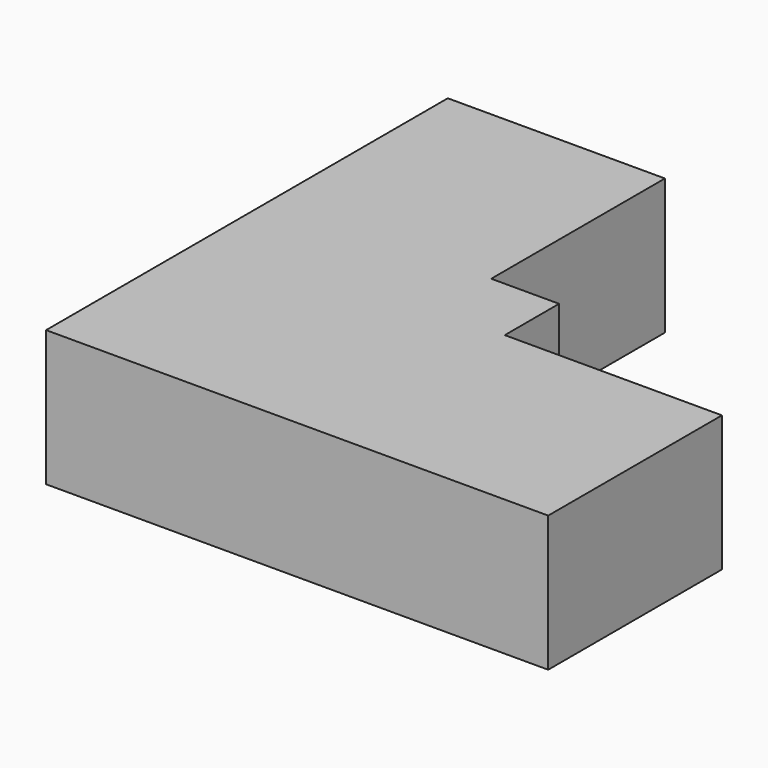
from build123d import *

# Parameters (mm, degrees)
F0_W     = 16
F0_H     = 16
F1_DEPTH = 10


with BuildPart() as f1:
    # F0 (on Top) → F1 (new body)
    with BuildSketch(Plane.XY):
        with Locations((-21.040395, 30.349494)):
            Rectangle(F0_W, F0_H)
        Polygon((-13.040395, 22.349494), (-29.040395, 22.349494), (-29.040395, 1.349494), (-8.040395, 1.349494), (-8.040395, 17.349494), (-8.040395, 22.349494), align=None)
        with Locations((-0.040395, 9.349494)):
            Rectangle(F0_W, F0_H)
    extrude(amount=F1_DEPTH)


solid = f1.part
